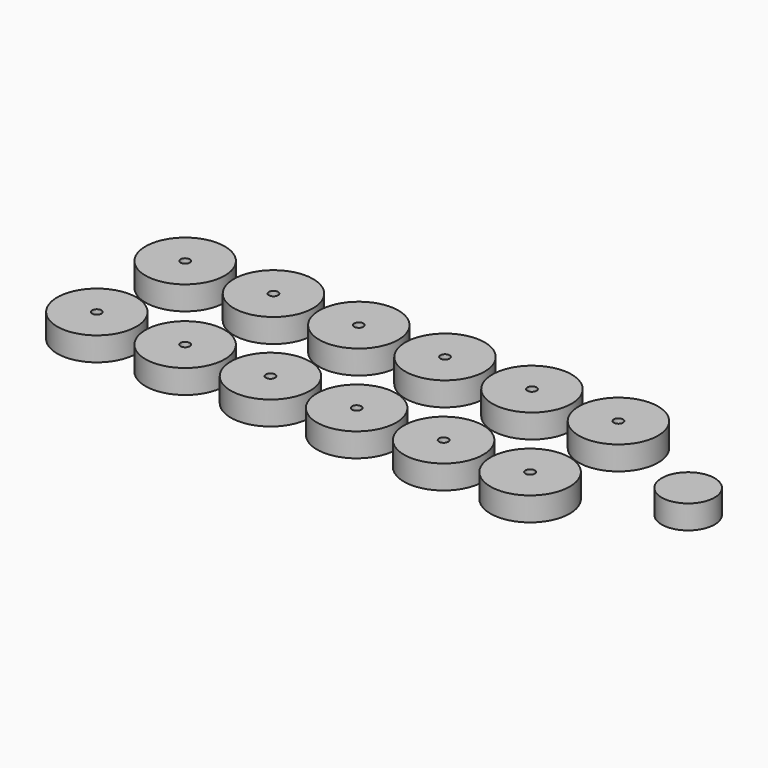
from build123d import *

# Parameters (mm, degrees)
F0_R     = 30
F0_R_2   = 3.5
F0_R_3   = 20
F1_DEPTH = 18


with BuildPart() as f1:
    # F0 (on Top) → F1 (new body)
    with BuildSketch(Plane.XY):
        with Locations((-211.34977, 50.699033)):
            Circle(F0_R)
        with Locations((-211.34977, 50.699033)):
            Circle(F0_R_2, mode=Mode.SUBTRACT)
        with Locations((-144.508222, 50.699033)):
            Circle(F0_R)
        with Locations((-144.508222, 50.699033)):
            Circle(F0_R_2, mode=Mode.SUBTRACT)
        with Locations((-79.914853, 50.699033)):
            Circle(F0_R)
        with Locations((-79.914853, 50.699033)):
            Circle(F0_R_2, mode=Mode.SUBTRACT)
        with Locations((-14.683932, 50.699033)):
            Circle(F0_R)
        with Locations((-14.683932, 50.699033)):
            Circle(F0_R_2, mode=Mode.SUBTRACT)
        with Locations((51.159855, 50.699033)):
            Circle(F0_R)
        with Locations((51.159855, 50.699033)):
            Circle(F0_R_2, mode=Mode.SUBTRACT)
        with Locations((116.612524, 50.699033)):
            Circle(F0_R)
        with Locations((116.612524, 50.699033)):
            Circle(F0_R_2, mode=Mode.SUBTRACT)
        with Locations((-211.34977, -32.884497)):
            Circle(F0_R)
        with Locations((-211.34977, -32.884497)):
            Circle(F0_R_2, mode=Mode.SUBTRACT)
        with Locations((-144.508222, -32.884497)):
            Circle(F0_R)
        with Locations((-144.508222, -32.884497)):
            Circle(F0_R_2, mode=Mode.SUBTRACT)
        with Locations((-79.914853, -32.884497)):
            Circle(F0_R)
        with Locations((-79.914853, -32.884497)):
            Circle(F0_R_2, mode=Mode.SUBTRACT)
        with Locations((-14.683932, -32.884497)):
            Circle(F0_R)
        with Locations((-14.683932, -32.884497)):
            Circle(F0_R_2, mode=Mode.SUBTRACT)
        with Locations((51.159855, -32.884497)):
            Circle(F0_R)
        with Locations((51.159855, -32.884497)):
            Circle(F0_R_2, mode=Mode.SUBTRACT)
        with Locations((116.612524, -32.884497)):
            Circle(F0_R)
        with Locations((116.612524, -32.884497)):
            Circle(F0_R_2, mode=Mode.SUBTRACT)
        with Locations((202.199355, 9.6635)):
            Circle(F0_R_3)
    extrude(amount=F1_DEPTH)


solid = f1.part
